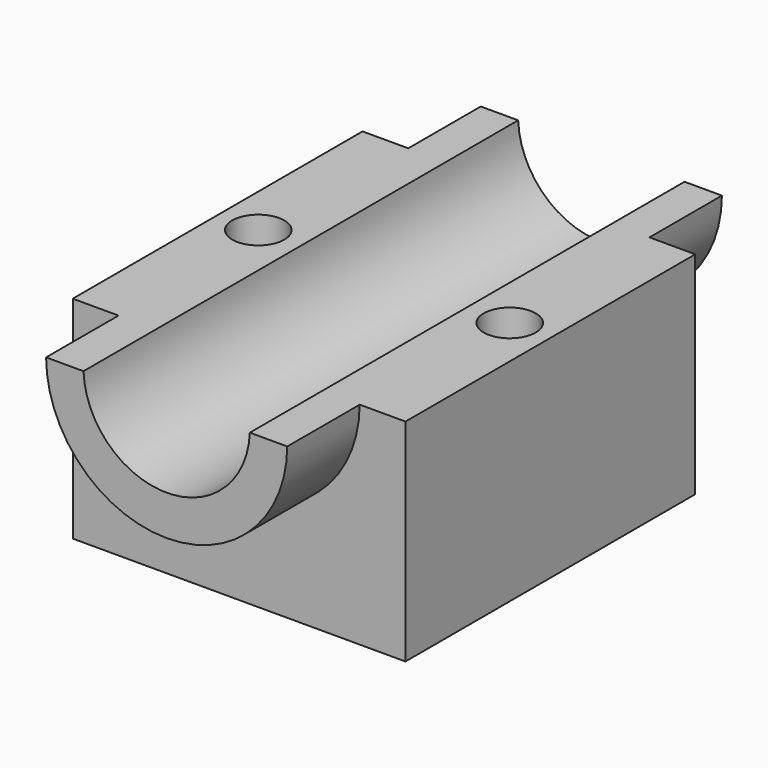
from build123d import *

# Parameters (mm, degrees)
F1_DEPTH = 152.4
F2_DEPTH = 101.6
F3_R     = 14.611246
F4_DEPTH = 161.29


with BuildPart() as f1:
    # F0 (on Front) → F1 (new body, symmetric)
    with BuildSketch(Plane.XZ):
        with BuildLine():
            Line((67.64774, 0), (46.662122, 0))
            ThreePointArc((46.662122, 0), (0, -44.853662), (-46.662122, 0))
            Line((-46.662122, 0), (-67.64774, 0))
            ThreePointArc((-67.64774, 0), (0, -67.278411), (67.64774, 0))
        make_face()
    extrude(amount=F1_DEPTH, both=True)

    # F0 (on Front) → F2 (join, symmetric)
    with BuildSketch(Plane.XZ):
        with BuildLine():
            Line((93.324244, 0), (67.64774, 0))
            ThreePointArc((67.64774, 0), (0, -67.278411), (-67.64774, 0))
            Line((-67.64774, 0), (-93.324244, 0))
            Line((-93.324244, 0), (-93.324244, -118.506968))
            Line((-93.324244, -118.506968), (0, -118.506968))
            Line((0, -118.506968), (93.324244, -118.506968))
            Line((93.324244, -118.506968), (93.324244, 0))
        make_face()
    extrude(amount=F2_DEPTH, both=True)

    # F3 (on Top) → F4 (cut)
    with BuildSketch(Plane.XY):
        with Locations((-70.525467, 0)):
            Circle(F3_R)
        with Locations((70.525467, 0)):
            Circle(F3_R)
    extrude(amount=-F4_DEPTH, mode=Mode.SUBTRACT)


solid = f1.part
